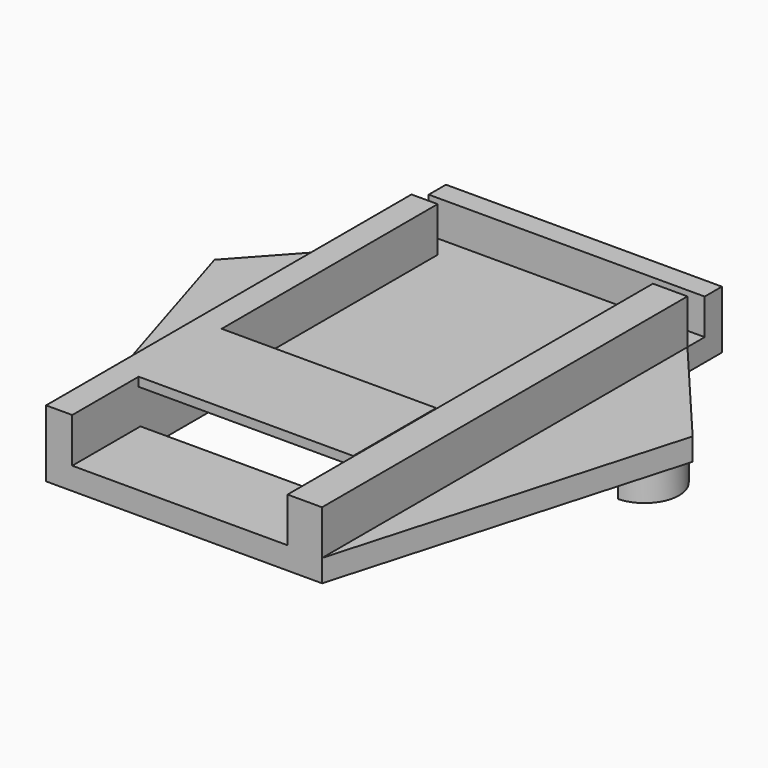
from build123d import *

# Parameters (mm, degrees)
F0_W      = 61.827414
F0_H      = 102.335028
F1_DEPTH  = 5
F2_W      = 5.862944
F2_H      = 102.335028
F2_W_2    = 7.728428
F3_DEPTH  = 10
F4_W      = 61.827414
F4_H      = 9.661161
F5_DEPTH  = 5
F6_W      = 61.827414
F6_H      = 4.830581
F7_DEPTH  = 8
F8_W      = 48.236042
F8_H      = 22.642768
F9_DEPTH  = 5
F10_W     = 48.06122
F10_H     = 23.24395
F11_DEPTH = 2
F13_DEPTH = 8


with BuildPart() as f1:
    # F0 (on Top) → F1 (new body)
    with BuildSketch(Plane.XY):
        Rectangle(F0_W, F0_H)
        Polygon((-30.913707, -51.167514), (-30.913707, 51.167514), (-54.365486, 25.317261), align=None)
        Polygon((52.766502, 25.317261), (30.913707, 51.167514), (30.913707, -51.167514), align=None)
    extrude(amount=F1_DEPTH)

    # F2 (on face) → F3 (join)
    with BuildSketch(Plane.XY.offset(5)):
        with Locations((-27.982235, 0)):
            Rectangle(F2_W, F2_H)
        with Locations((27.049493, 0)):
            Rectangle(F2_W_2, F2_H)
        with Locations((-27.982235, 0)):
            Rectangle(F2_W, F2_H)
    extrude(amount=F3_DEPTH)

    # F4 (on face) → F5 (join)
    with BuildSketch(Plane(origin=(0, 0, 0), x_dir=(1, 0, 0), z_dir=(0, 0, -1))):
        with Locations((0, -55.998094)):
            Rectangle(F4_W, F4_H)
    extrude(amount=-F5_DEPTH)

    # F6 (on face) → F7 (join)
    with BuildSketch(Plane.XY.offset(5)):
        with Locations((0, 58.413384)):
            Rectangle(F6_W, F6_H)
    extrude(amount=F7_DEPTH)

    # F8 (on face) → F9 (cut)
    with BuildSketch(Plane.XY.offset(5)):
        with Locations((-0.932742, -20.754081)):
            Rectangle(F8_W, F8_H)
    extrude(amount=-F9_DEPTH, mode=Mode.SUBTRACT)

    # F10 (on face) → F11 (join)
    with BuildSketch(Plane.XY.offset(15)):
        with Locations((-1.020153, -20.942758)):
            Rectangle(F10_W, F10_H)
    extrude(amount=-F11_DEPTH)

    # F12 (on face) → F13 (join)
    with BuildSketch(Plane(origin=(0, 0, 0), x_dir=(1, 0, 0), z_dir=(0, 0, -1))):
        with BuildLine():
            ThreePointArc((-41.82278, -18.125845), (-49.30103, -25.974858), (-41.573606, -33.578683))
            Line((-41.573606, -33.578683), (-41.82278, -18.125845))
        make_face()
        with BuildLine():
            ThreePointArc((41.573606, -33.578683), (49.30103, -25.974858), (41.82278, -18.125845))
            Line((41.82278, -18.125845), (41.573606, -33.578683))
        make_face()
    extrude(amount=F13_DEPTH)


solid = f1.part
